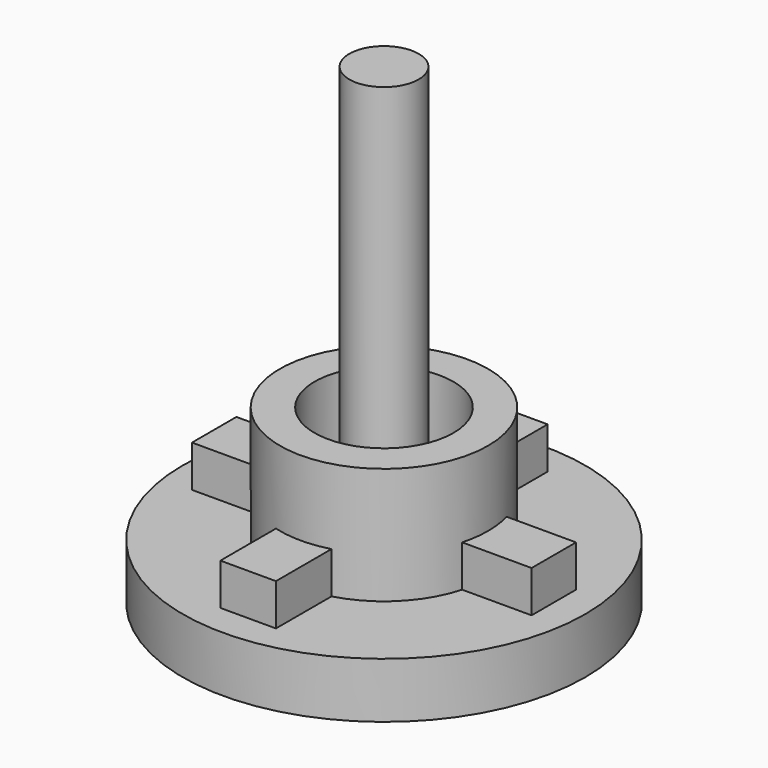
from build123d import *

# Parameters (mm, degrees)
SKETCH_R           = 7.25
PAD_DEPTH          = 2
SKETCH001_R        = 3.75
SKETCH001_R_2      = 2.5
PAD001_DEPTH       = 4.2
SKETCH002_R        = 1.25
PAD002_DEPTH       = 15
PAD003_DEPTH       = 1.5
POLARPATTERN_COUNT = 4


with BuildPart() as part:
    # Sketch → Pad (new body)
    with BuildSketch(Plane.XY):
        Circle(SKETCH_R)
    extrude(amount=PAD_DEPTH)

    # Sketch001 (on Face3 of Pad) → Pad001 (join)
    with BuildSketch(Plane.XY.offset(2)):
        Circle(SKETCH001_R)
        Circle(SKETCH001_R_2, mode=Mode.SUBTRACT)
    extrude(amount=PAD001_DEPTH)

    # Sketch002 (on Face7 of Pad001) → Pad002 (join)
    with BuildSketch(Plane.XY.offset(2)):
        Circle(SKETCH002_R)
    extrude(amount=PAD002_DEPTH)

    # Sketch003 (on Face3 of Pad002) → Pad003 (join)
    with BuildSketch(Plane.XY.offset(2)):
        with BuildLine():
            Line((-1, 3.614208), (-1, 6.114208))
            Line((-1, 6.114208), (1, 6.114208))
            Line((1, 6.114208), (1, 3.614208))
            ThreePointArc((1, 3.614208), (0, 3.75), (-1, 3.614208))
        make_face()
    pad003 = extrude(amount=PAD003_DEPTH)

    # PolarPattern: Pad003 ×4 about axis
    polarpattern_axis = Axis((0, 0, 2), (0, 0, 1))
    for i in range(1, POLARPATTERN_COUNT):
        add(pad003.rotate(polarpattern_axis, i * 360 / POLARPATTERN_COUNT))


solid = part.part
